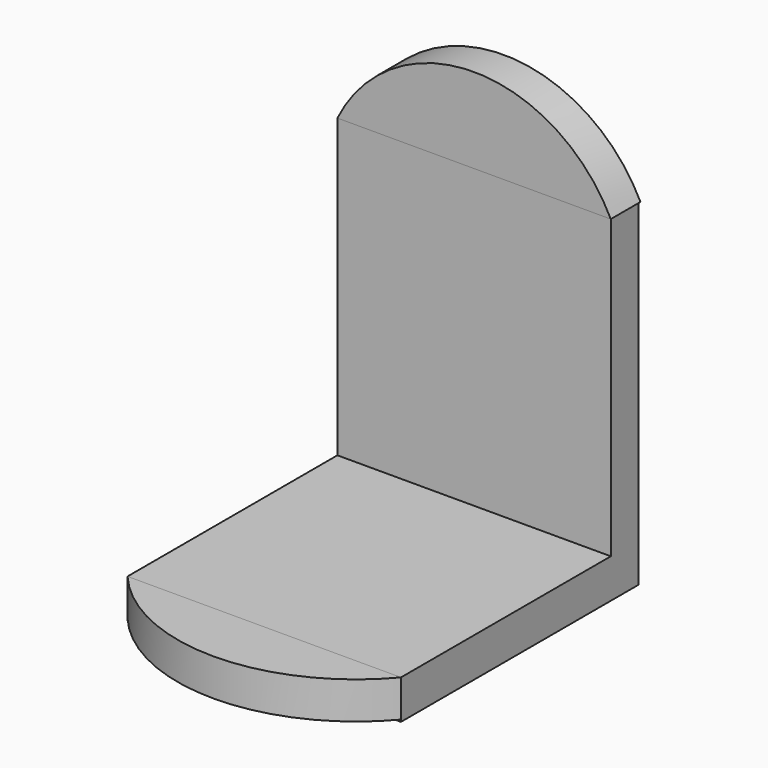
from build123d import *

# Parameters (mm, degrees)
F0_W     = 93.5684889555
F0_H     = 13.409497682
F1_DEPTH = 101.6
F2_W     = 93.5684889555
F2_H     = 11.8308644742
F3_DEPTH = 101.6
F5_DEPTH = 12.7
F7_DEPTH = 12.7


with BuildPart() as f1:
    # F0 (on Front) → F1 (new body)
    with BuildSketch(Plane.XZ):
        with Locations((-11.6215646267, 2.681899583)):
            Rectangle(F0_W, F0_H)
    extrude(amount=F1_DEPTH)

    # F2 (on face) → F3 (join)
    with BuildSketch(Plane.XY.offset(9.386648424)):
        with Locations((-11.6215646267, -5.9154322371)):
            Rectangle(F2_W, F2_H)
    extrude(amount=F3_DEPTH)


with BuildPart() as f5:
    # F4 (on face) → F5 (new body)
    with BuildSketch(Plane.XZ.offset(11.8308644742)):
        with BuildLine():
            Line((-58.4058091044, 110.986648424), (35.1626798511, 110.986648424))
            ThreePointArc((35.1626798511, 110.986648424), (-11.6215646267, 140.1063295493), (-58.4058091044, 110.986648424))
        make_face()
    extrude(amount=-F5_DEPTH)


with BuildPart() as f7:
    # F6 (on face) → F7 (new body)
    with BuildSketch(Plane.XY.offset(9.386648424)):
        with BuildLine():
            Line((35.1626798511, -101.6), (-58.4058091044, -101.6))
            ThreePointArc((-58.4058091044, -101.6), (-11.6215646267, -123.3899849422), (35.1626798511, -101.6))
        make_face()
    extrude(amount=-F7_DEPTH)


solid = Compound([f1.part, f5.part, f7.part])
